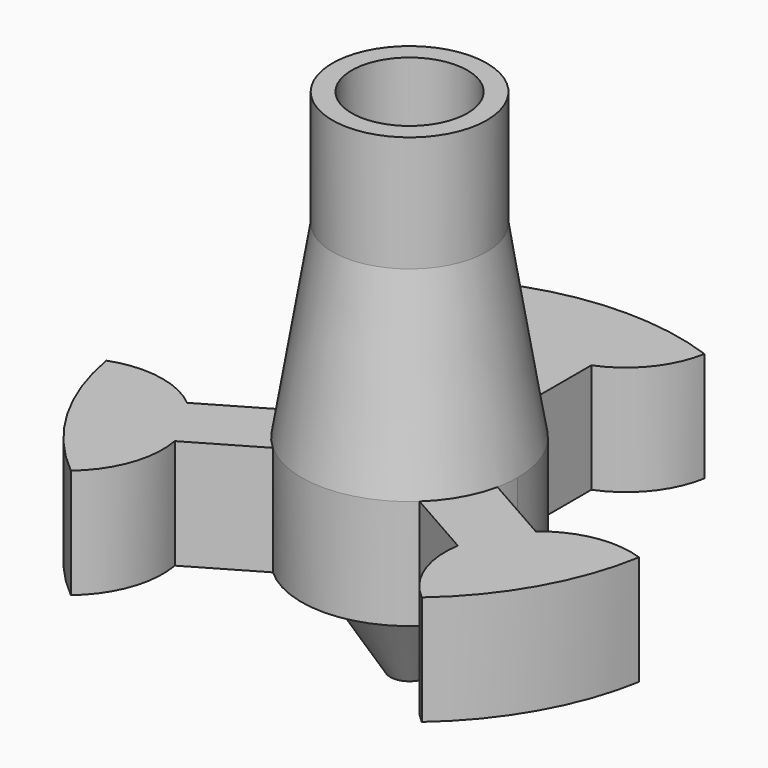
from build123d import *

# Parameters (mm, degrees)
F3_DEPTH = 14.097
F4_R     = 4.7625
F5_DEPTH = 9.525
F6_R     = 1.5875
F7_DEPTH = 10.3886
F8_R     = 1.5875
F9_DEPTH = 9.8298


with BuildPart() as f1:
    # F0 (on Front) → F1 (revolve)
    with BuildSketch(Plane.XZ):
        Polygon((6.35, 24.5250865847), (6.35, 34.0500865847), (0, 34.0500865847), (0, -10.3999134153), (6.35, 0), (22.225, 0), (22.225, 9.0132579207), (8.8899998294, 9.0132579207), align=None)
    revolve(axis=Axis((0, 0, 11.8250865847), (0, 0, 1)))

    # F2 (on Top) → F3 (cut)
    with BuildSketch(Plane.XY):
        with BuildLine():
            ThreePointArc((-14.113121628, -17.1688794892), (0.2443956371, -22.2236562197), (14.487278372, -16.8543582011))
            ThreePointArc((14.487278372, -16.8543582011), (12.207059324, -13.6802064233), (11.8003316443, -9.7931495662))
            Line((11.8003316443, -9.7931495662), (6.0394839652, -6.5235522098))
            ThreePointArc((6.0394839652, -6.5235522098), (0.0488798663, -8.889865621), (-5.9673830231, -6.5895705365))
            Line((-5.9673830231, -6.5895705365), (-11.470085079, -9.7931648991))
            ThreePointArc((-11.470085079, -9.7931648991), (-11.8071714813, -13.8337865787), (-14.113121628, -17.1688794892))
        make_face()
        with BuildLine():
            ThreePointArc((21.8983417722, -3.7964789779), (22.1431848532, -1.9052531477), (22.225, 0))
            ThreePointArc((22.225, 0), (18.1777280494, 12.7875262644), (7.5099648628, 20.9177210221))
            ThreePointArc((7.5099648628, 20.9177210221), (5.9196955053, 17.4232913204), (2.8274223411, 15.1478040653))
            Line((2.8274223411, 15.1478040653), (2.8274223411, 8.4283914779))
            ThreePointArc((2.8274223411, 8.4283914779), (7.2169205556, 5.1911614976), (8.89, 0))
            ThreePointArc((8.89, 0), (8.8417204308, -0.9252458182), (8.6974061138, -1.8404420369))
            Line((8.6974061138, -1.8404420369), (14.4582537929, -5.1100393933))
            ThreePointArc((14.4582537929, -5.1100393933), (18.0040397888, -3.4662510593), (21.8983417722, -3.7964789779))
        make_face()
        with BuildLine():
            ThreePointArc((-2.5544860487, 15.0469797465), (-5.8234880662, 17.3140797385), (-7.5044304492, 20.9197071833))
            ThreePointArc((-7.5044304492, 20.9197071833), (-19.2055517537, 11.1846952054), (-21.8983417722, -3.7964789779))
            ThreePointArc((-21.8983417722, -3.7964789779), (-17.8595819955, -3.4377725991), (-14.1793440119, -5.1395655315))
            Line((-14.1793440119, -5.1395655315), (-8.676641956, -1.9359711689))
            ThreePointArc((-8.676641956, -1.9359711689), (-7.6707699458, 4.4934828851), (-2.5544860487, 8.5150866717))
            Line((-2.5544860487, 8.5150866717), (-2.5544860487, 15.0469797465))
        make_face()
    extrude(amount=F3_DEPTH, mode=Mode.SUBTRACT)

    # F4 (on face) → F5 (cut)
    with BuildSketch(Plane.XY.offset(34.0500865847)):
        Circle(F4_R)
    extrude(amount=-F5_DEPTH, mode=Mode.SUBTRACT)

    # F6 (on Top) → F7 (cut)
    with BuildSketch(Plane.XY):
        Circle(F6_R)
    extrude(amount=-F7_DEPTH, mode=Mode.SUBTRACT)

    # F8 (on Top) → F9 (cut)
    with BuildSketch(Plane.XY):
        Circle(F8_R)
    extrude(amount=F9_DEPTH, mode=Mode.SUBTRACT)


solid = f1.part
